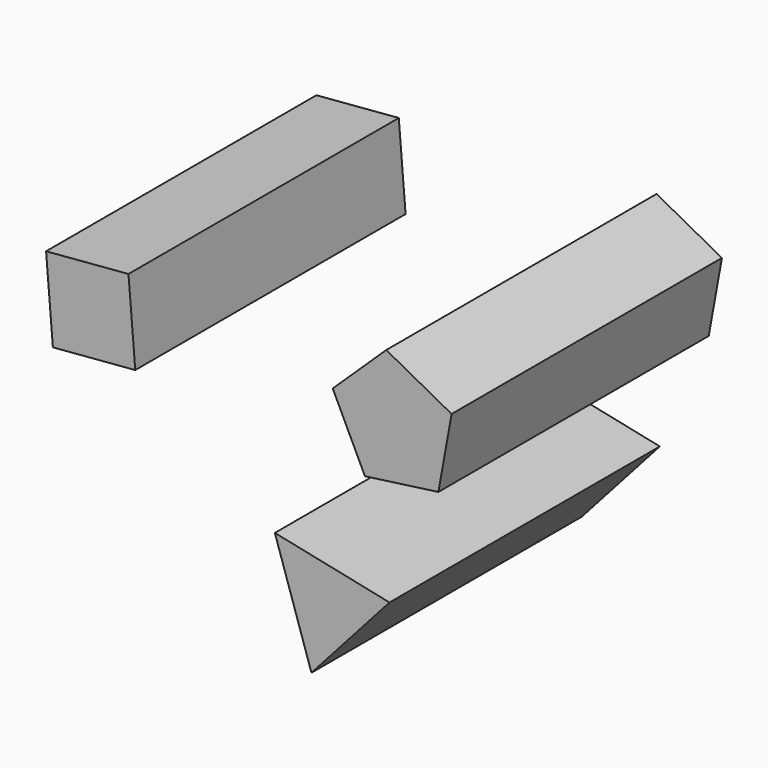
from build123d import *

# Parameters (mm, degrees)
F1_DEPTH = 100
F3_DEPTH = 100
F5_DEPTH = 100


with BuildPart() as f1:
    # F0 (on Front) → F1 (new body)
    with BuildSketch(Plane.XZ):
        Polygon((19.011938, 6.249314), (-14.918034, 13.340164), (-4.093904, -19.589478), align=None)
    extrude(amount=F1_DEPTH)


with BuildPart() as f3:
    # F2 (on Front) → F3 (new body)
    with BuildSketch(Plane.XZ):
        Polygon((-80.614757, 40.30738), (-56.229509, 42.315576), (-58.237705, 66.700824), (-82.622953, 64.692628), align=None)
    extrude(amount=F3_DEPTH)


with BuildPart() as f5:
    # F4 (on Front) → F5 (new body)
    with BuildSketch(Plane.XZ):
        Polygon((11.739455, 36.772566), (33.48361, 39.733607), (37.386805, 61.328539), (18.054959, 71.7139), (2.204024, 56.537474), align=None)
    extrude(amount=F5_DEPTH)


solid = Compound([f1.part, f3.part, f5.part])
